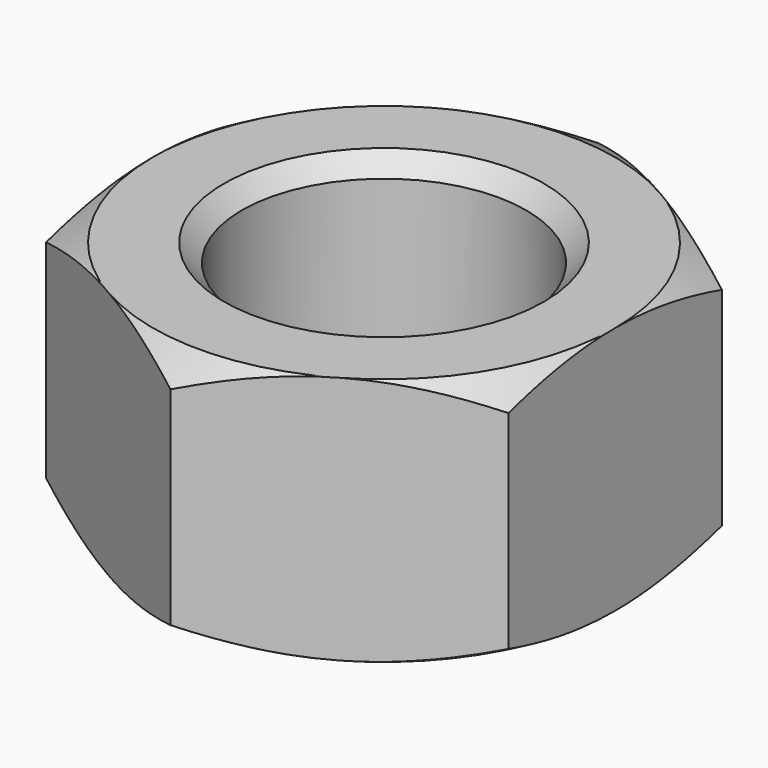
from build123d import *

# Parameters (mm, degrees)
F0_R     = 4
F1_DEPTH = 7
F4_SIZE  = 0.5


with BuildPart() as f1:
    # F0 (on Top) → F1 (new body)
    with BuildSketch(Plane.XY):
        Polygon((0, -7.505553), (6.5, -3.752777), (6.5, 3.752777), (0, 7.505553), (-6.5, 3.752777), (-6.5, -3.752777), align=None)
        Circle(F0_R, mode=Mode.SUBTRACT)
        Polygon((0, -7.505553), (6.5, -3.752777), (6.5, 3.752777), (0, 7.505553), (-6.5, 3.752777), (-6.5, -3.752777), align=None)
        Circle(F0_R, mode=Mode.SUBTRACT)
    extrude(amount=F1_DEPTH)

    # F2 (on Front) → F3 (revolve, cut)
    with BuildSketch(Plane.XZ):
        Polygon((12.209009, 7), (6.5, 7), (12.209009, 3.703902), align=None)
        Polygon((12.209009, 3.296098), (6.5, 0), (12.209009, 0), align=None)
    revolve(axis=Axis((0, 0, 1.75), (0, 0, -1)), mode=Mode.SUBTRACT)

    # F4
    f4_edges = [f1.edges().sort_by_distance(p)[0] for p in [
        (4, 0, 3.5),
        (-4, 0, 0),
        (-4, 0, 7),
    ]]
    chamfer(f4_edges, length=F4_SIZE)


solid = f1.part
